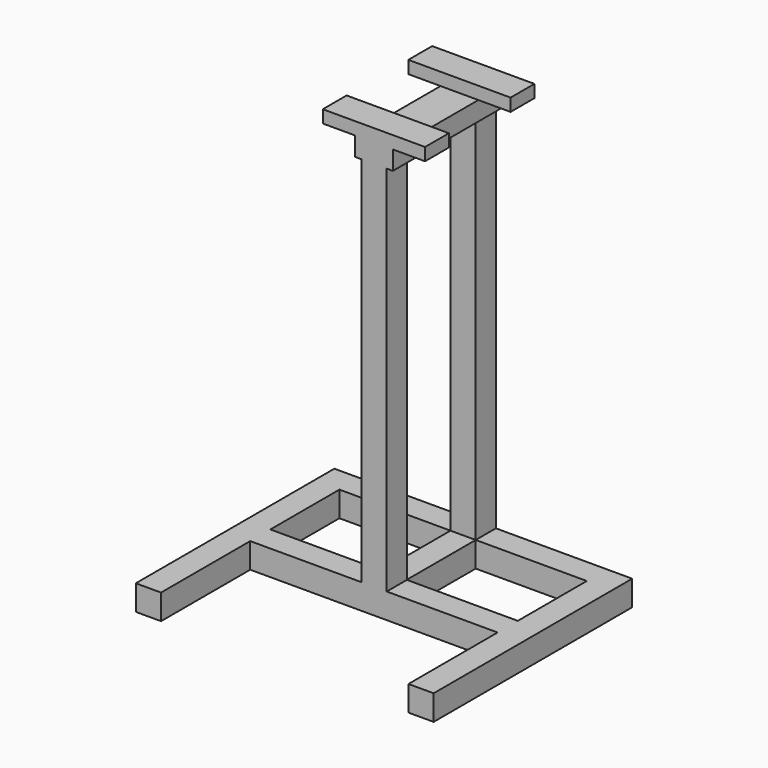
from build123d import *

# Parameters (mm, degrees)
F0_W     = 223.8
F0_H     = 173.8
F1_DEPTH = 50.8
F2_W     = 51.225417
F2_H     = 50.8
F2_W_2   = 50.8
F3_DEPTH = 750
F5_W     = 76.2
F5_H     = 275.4
F6_DEPTH = 38.1
F8_W     = 206
F8_H     = 60
F9_DEPTH = 25.4


with BuildPart() as f1:
    # F0 (on Top) → F1 (new body)
    with BuildSketch(Plane.XY):
        Polygon((0, 250), (-300, 250), (-300, -250), (-249.2, -250), (-249.2, -25.4), (0, -25.4), (249.2, -25.4), (249.2, -250), (300, -250), (300, 250), align=None)
        with Locations((-137.3, 112.3)):
            Rectangle(F0_W, F0_H, mode=Mode.SUBTRACT)
        with Locations((137.3, 112.3)):
            Rectangle(F0_W, F0_H, mode=Mode.SUBTRACT)
    extrude(amount=F1_DEPTH)

    # F2 (on face) → F3 (join)
    with BuildSketch(Plane.XY.offset(50.8)):
        with Locations((0.212708, 0)):
            Rectangle(F2_W, F2_H)
        with Locations((0, 224.6)):
            Rectangle(F2_W_2, F2_H)
    extrude(amount=F3_DEPTH)

    # F5 (on offset) → F6 (join)
    with BuildSketch(Plane.XY.offset(800.8)):
        with Locations((0, 112.3)):
            Rectangle(F5_W, F5_H)
    extrude(amount=F6_DEPTH)

    # F8 (on offset) → F9 (join)
    with BuildSketch(Plane.XY.offset(838.9)):
        with Locations((0, 4.6)):
            Rectangle(F8_W, F8_H)
        with Locations((0, 220)):
            Rectangle(F8_W, F8_H)
    extrude(amount=F9_DEPTH)


solid = f1.part
